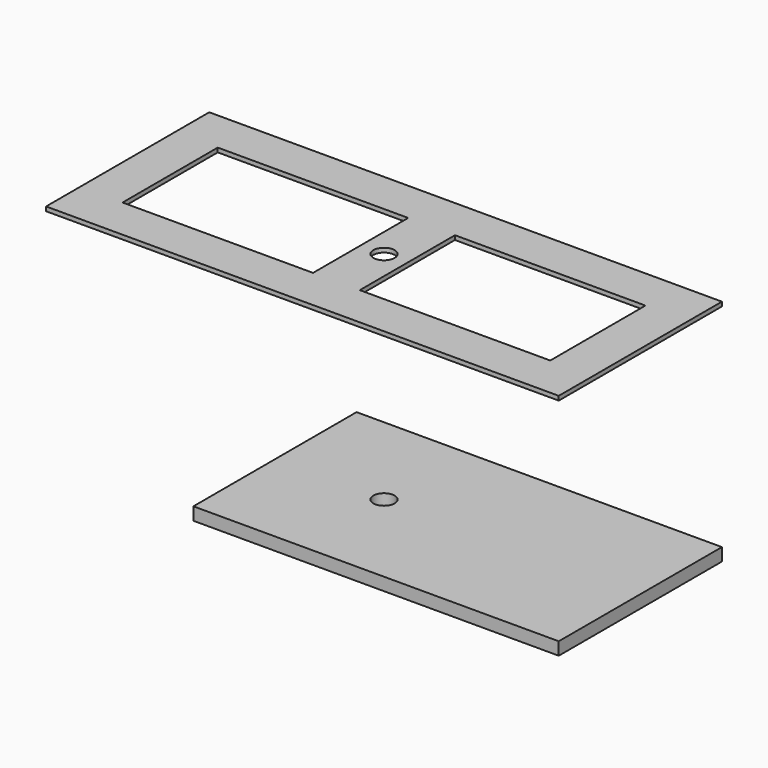
from build123d import *

# Parameters (mm, degrees)
F0_R     = 5
F1_DEPTH = 6
F2_W     = 96
F2_H     = 2
F3_DEPTH = 241.3
F5_DEPTH = 25
F4_W     = 89.65
F4_H     = 56
F4_R     = 5
F6_DEPTH = 25


with BuildPart() as f1:
    # F0 (on Top) → F1 (new body)
    with BuildSketch(Plane.XY):
        Polygon((65.358043, 50.338901), (-106.601957, 50.338901), (-106.601957, -45.661099), (65.358043, -45.661099), (65.358043, 2.338901), align=None)
        with Locations((-55.291957, 2.338901)):
            Circle(F0_R, mode=Mode.SUBTRACT)
    extrude(amount=F1_DEPTH)


with BuildPart() as f3:
    # F2 (on face) → F3 (new body)
    with BuildSketch(Plane.YZ.offset(65.358043)):
        with Locations((2.338901, 106.7)):
            Rectangle(F2_W, F2_H)
    extrude(amount=-F3_DEPTH)

    # F4 (on face) → F5 (cut)
    with BuildSketch(Plane.XY.offset(107.7)):
        Polygon((-66.291957, 30.338901), (-155.941957, 30.338901), (-155.941957, -25.661099), (-66.291957, -25.661099), (-66.291957, 2.338901), align=None)
    extrude(amount=-F5_DEPTH, mode=Mode.SUBTRACT)

    # F4 (on face) → F6 (cut)
    with BuildSketch(Plane.XY.offset(107.7)):
        with Locations((0.533043, 2.338901)):
            Rectangle(F4_W, F4_H)
        with Locations((-55.291957, 2.338901)):
            Circle(F4_R)
    extrude(amount=-F6_DEPTH, mode=Mode.SUBTRACT)


solid = Compound([f1.part, f3.part])
